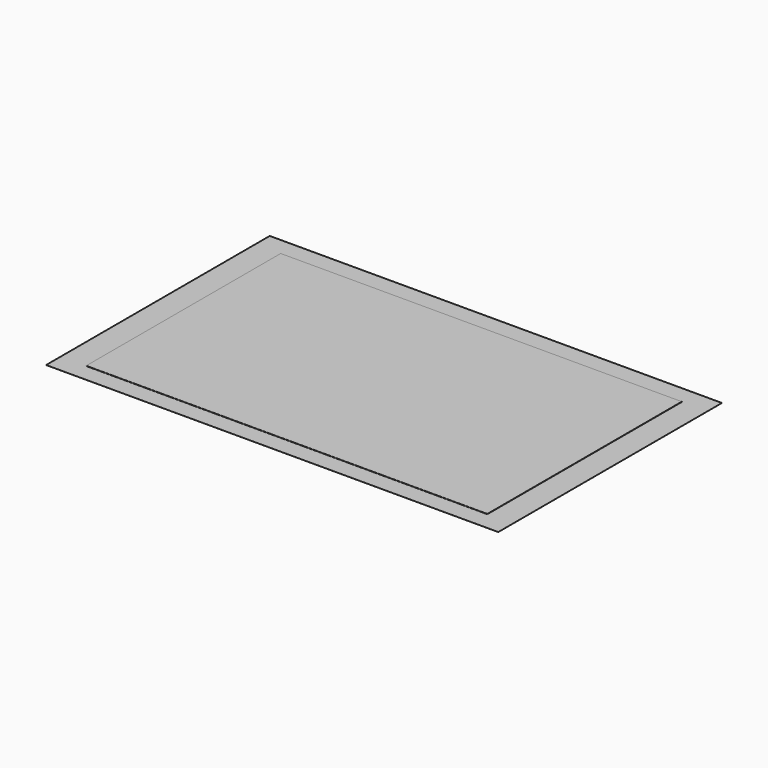
from build123d import *

# Parameters (mm, degrees)
F0_W      = 1650
F0_H      = 1000
F1_DEPTH  = 1
F2_W      = 1860
F2_H      = 1150
F3_DEPTH  = 0.1
F4_W      = 1650
F4_H      = 44
F5_DEPTH  = 14
F6_W      = 44
F6_H      = 956
F7_DEPTH  = 14
F8_R      = 1.6
F9_DEPTH  = 3
F10_R     = 1.6
F11_DEPTH = 3
F12_R     = 5
F13_SIZE2 = 1
F13_SIZE  = 1.7
F14_SIZE  = 1


with BuildPart() as f1:
    # F0 (on Top) → F1 (new body)
    with BuildSketch(Plane.XY):
        Rectangle(F0_W, F0_H)
    extrude(amount=F1_DEPTH)


with BuildPart() as f3:
    # F2 (on face) → F3 (new body)
    with BuildSketch(Plane(origin=(0, 0, 0), x_dir=(1, 0, 0), z_dir=(0, 0, -1))):
        Rectangle(F2_W, F2_H)
    extrude(amount=F3_DEPTH)


with BuildPart() as f5:
    # F4 (on face) → F5 (new body)
    with BuildSketch(Plane(origin=(0, 0, 0), x_dir=(1, 0, 0), z_dir=(0, 0, -1))):
        with Locations((0, 478)):
            Rectangle(F4_W, F4_H)
    extrude(amount=F5_DEPTH)


with BuildPart() as f7:
    # F6 (on face) → F7 (new body)
    with BuildSketch(Plane(origin=(0, 0, 0), x_dir=(1, 0, 0), z_dir=(0, 0, -1))):
        with Locations((803, -22)):
            Rectangle(F6_W, F6_H)
    extrude(amount=F7_DEPTH)


with BuildPart() as f9:
    # F8 (on face) → F9 (new body)
    with BuildSketch(Plane(origin=(0, 0, -14), x_dir=(1, 0, 0), z_dir=(0, 0, -1))):
        with BuildLine():
            ThreePointArc((798, 434), (798.87868, 431.87868), (801, 431))
            Line((801, 431), (805, 431))
            ThreePointArc((805, 431), (807.12132, 431.87868), (808, 434))
            Line((808, 434), (808, 456))
            Line((808, 456), (808, 478))
            ThreePointArc((808, 478), (807.12132, 480.12132), (805, 481))
            Line((805, 481), (801, 481))
            ThreePointArc((801, 481), (798.87868, 480.12132), (798, 478))
            Line((798, 478), (798, 456))
            Line((798, 456), (798, 434))
        make_face()
        with Locations((803, 437.25)):
            Circle(F8_R, mode=Mode.SUBTRACT)
        with Locations((803, 449.75)):
            Circle(F8_R, mode=Mode.SUBTRACT)
        with Locations((803, 462.25)):
            Circle(F8_R, mode=Mode.SUBTRACT)
        with Locations((803, 474.75)):
            Circle(F8_R, mode=Mode.SUBTRACT)
    extrude(amount=F9_DEPTH)


with BuildPart() as f11:
    # F10 (on face) → F11 (new body)
    with BuildSketch(Plane(origin=(0, 0, -14), x_dir=(1, 0, 0), z_dir=(0, 0, -1))):
        with BuildLine():
            Line((798, 451), (794, 451))
            ThreePointArc((794, 451), (791.87868, 450.12132), (791, 448))
            Line((791, 448), (791, 444))
            ThreePointArc((791, 444), (791.87868, 441.87868), (794, 441))
            Line((794, 441), (812, 441))
            ThreePointArc((812, 441), (814.12132, 441.87868), (815, 444))
            Line((815, 444), (815, 448))
            ThreePointArc((815, 448), (814.12132, 450.12132), (812, 451))
            Line((812, 451), (808, 451))
            Line((808, 451), (808, 456))
            Line((808, 456), (798, 456))
            Line((798, 456), (798, 451))
        make_face()
        with Locations((797, 446)):
            Circle(F10_R, mode=Mode.SUBTRACT)
        with Locations((809, 446)):
            Circle(F10_R, mode=Mode.SUBTRACT)
        with BuildLine():
            Line((798, 461), (798, 456))
            Line((798, 456), (808, 456))
            Line((808, 456), (808, 461))
            Line((808, 461), (812, 461))
            ThreePointArc((812, 461), (814.12132, 461.87868), (815, 464))
            Line((815, 464), (815, 468))
            ThreePointArc((815, 468), (814.12132, 470.12132), (812, 471))
            Line((812, 471), (794, 471))
            ThreePointArc((794, 471), (791.87868, 470.12132), (791, 468))
            Line((791, 468), (791, 464))
            ThreePointArc((791, 464), (791.87868, 461.87868), (794, 461))
            Line((794, 461), (798, 461))
        make_face()
        with Locations((797, 466)):
            Circle(F10_R, mode=Mode.SUBTRACT)
        with Locations((809, 466)):
            Circle(F10_R, mode=Mode.SUBTRACT)
    extrude(amount=F11_DEPTH)

    # F12
    f12_edges = [f11.edges().sort_by_distance(p)[0] for p in [
        (808, -461, -15.5),
        (808, -451, -15.5),
        (798, -461, -15.5),
        (798, -451, -15.5),
    ]]
    fillet(f12_edges, radius=F12_R)

    # F13
    f13_edges = [f11.edges().sort_by_distance(p)[0] for p in [
        (807.4, -446, -17),
        (795.4, -446, -17),
        (807.4, -466, -17),
        (795.4, -466, -17),
    ]]
    chamfer(f13_edges, length=F13_SIZE, length2=F13_SIZE2)

    # F14
    f14_edges = [f11.edges().sort_by_distance(p)[0] for p in [
        (814.12132, -441.87868, -17),
    ]]
    chamfer(f14_edges, length=F14_SIZE)


solid = Compound([f1.part, f3.part, f5.part, f7.part, f9.part, f11.part])
